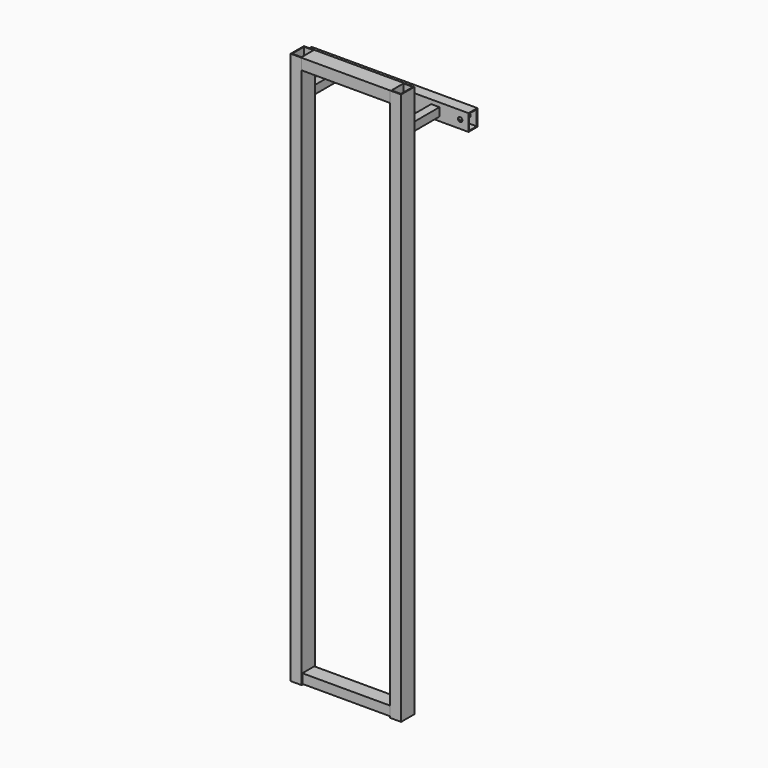
from build123d import *

# Parameters (mm, degrees)
F0_W          = 20
F0_H          = 30
F0_W_2        = 17
F0_H_2        = 27
F1_DEPTH      = 500
F2_W          = 30
F2_H          = 20
F2_W_2        = 27
F2_H_2        = 17
F3_DEPTH      = 80
F3_DEPTH_BACK = 80
F4_W          = 20
F4_H          = 30
F4_W_2        = 17
F4_H_2        = 27
F5_DEPTH      = 150
F6_W          = 15
F6_H          = 15
F6_W_2        = 12
F6_H_2        = 12
F7_DEPTH      = 60
F9_D          = 8


with BuildPart() as f1:
    # F0 (on Top) → F1 (new body, symmetric)
    with BuildSketch(Plane.XY):
        with Locations((-90, 0)):
            Rectangle(F0_W, F0_H)
        with Locations((-90, 0)):
            Rectangle(F0_W_2, F0_H_2, mode=Mode.SUBTRACT)
        with Locations((90, 0)):
            Rectangle(F0_W, F0_H)
        with Locations((90, 0)):
            Rectangle(F0_W_2, F0_H_2, mode=Mode.SUBTRACT)
    extrude(amount=F1_DEPTH, both=True)


with BuildPart() as f3:
    # F2 (on Right) → F3 (new body, two sides)
    with BuildSketch(Plane.YZ) as f3_sk:
        with Locations((0, 490)):
            Rectangle(F2_W, F2_H)
        with Locations((0, 490)):
            Rectangle(F2_W_2, F2_H_2, mode=Mode.SUBTRACT)
        with Locations((0, -490)):
            Rectangle(F2_W_2, F2_H_2)
    extrude(amount=F3_DEPTH)
    extrude(f3_sk.sketch, amount=-F3_DEPTH_BACK)


with BuildPart() as f5:
    # F4 (on Right) → F5 (new body, symmetric)
    with BuildSketch(Plane.YZ):
        with Locations((85, 435)):
            Rectangle(F4_W, F4_H)
        with Locations((85, 435)):
            Rectangle(F4_W_2, F4_H_2, mode=Mode.SUBTRACT)
    extrude(amount=F5_DEPTH, both=True)

    # F9 (through all)
    with Locations(Plane.XZ.offset(-75)):
        with Locations((135, 435), (-135, 435)):
            Hole(F9_D / 2)


with BuildPart() as f7:
    # F6 (on face) → F7 (new body, through all)
    with BuildSketch(Plane.XZ.offset(-75)):
        with Locations((90, 435)):
            Rectangle(F6_W, F6_H)
        with Locations((90, 435)):
            Rectangle(F6_W_2, F6_H_2, mode=Mode.SUBTRACT)
        with Locations((-90, 435)):
            Rectangle(F6_W, F6_H)
        with Locations((-90, 435)):
            Rectangle(F6_W_2, F6_H_2, mode=Mode.SUBTRACT)
    extrude(amount=F7_DEPTH)


solid = Compound([f1.part, f3.part, f5.part, f7.part])
